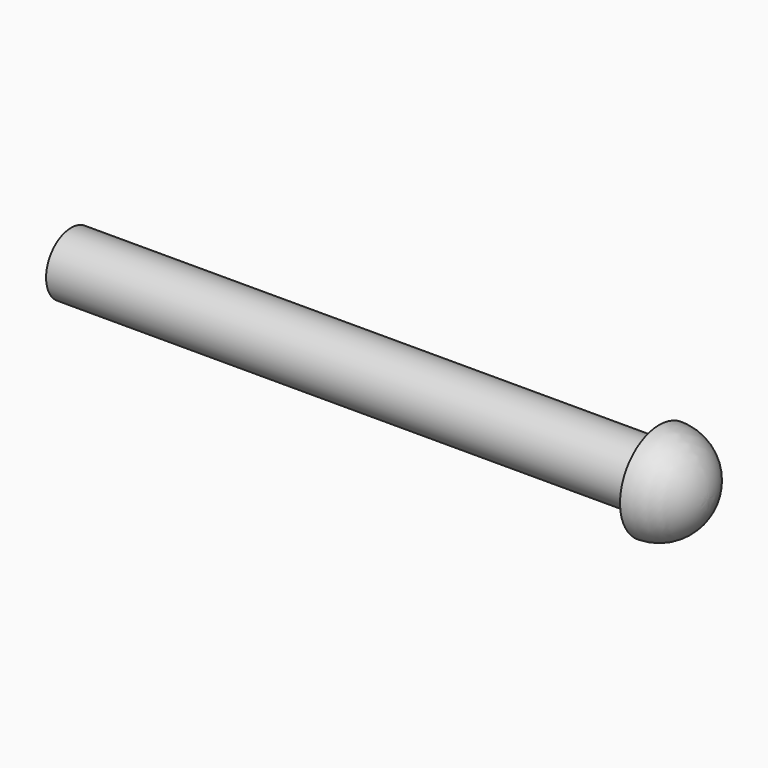
from build123d import *


with BuildPart() as f1:
    # F0 (on Front) → F1 (revolve)
    with BuildSketch(Plane.XZ):
        with BuildLine():
            Line((0, 1.61925), (0, 0))
            Line((0, 0), (30.48, 0))
            Line((30.48, 0), (33.02, 0))
            ThreePointArc((33.02, 0), (32.276051, 1.796051), (30.48, 2.54))
            Line((30.48, 2.54), (30.48, 1.61925))
            Line((30.48, 1.61925), (0, 1.61925))
        make_face()
    revolve(axis=Axis((15.935728, 0, 0), (1, 0, 0)))


solid = f1.part
